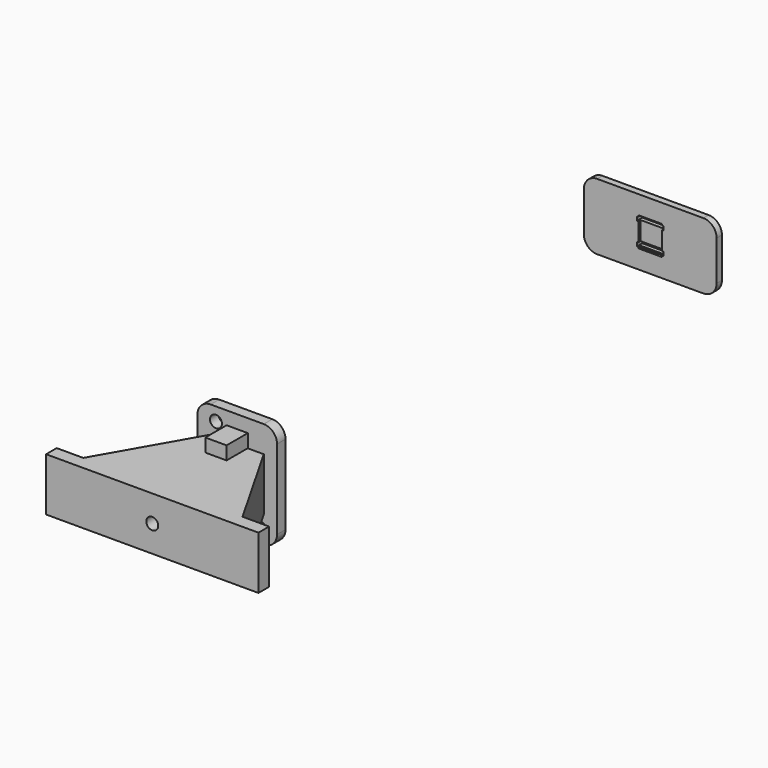
from build123d import *

# Parameters (mm, degrees)
PAD_DEPTH               = 10
SKETCH001_R             = 2.25
POCKET_DEPTH            = 40.001
SKETCH005_W             = 30
SKETCH005_H             = 40
SKETCH005_R             = 2.25
PAD004_DEPTH            = 4
SKETCH007_W             = 8
SKETCH007_H             = 5
PAD003_DEPTH            = 10
SKETCH006_R             = 2.25
POCKET002_DEPTH         = 14.001
FILLET001_R             = 5
SKETCH008_W             = 25
SKETCH008_H             = 50
SKETCH008_W_2           = 1.5
SKETCH008_H_2           = 10
PAD005_DEPTH            = 2.5
SKETCH009_W             = 11
SKETCH009_H             = 9
POCKET003_DEPTH         = 1
FILLET_R                = 5
BODY003_PITCH_ANGLE     = 90
BODY003_PLACEMENT_ANGLE = -90


with BuildPart() as windowopener_brace:
    # Sketch → Pad (new body, symmetric)
    with BuildSketch(Plane.XY):
        Polygon((-40, 0), (40, 0), (40, 5), (30, 5), (10, 40), (-10, 40), (-30, 5), (-40, 5), align=None)
    extrude(amount=PAD_DEPTH, both=True)

    # Sketch001 (on Face5 of Pad) → Pocket (cut, through all)
    with BuildSketch(Plane(origin=(0, 40, 0), x_dir=(-1, 0, 0), z_dir=(0, 1, 0))):
        Circle(SKETCH001_R)
    extrude(amount=-POCKET_DEPTH, mode=Mode.SUBTRACT)


with BuildPart() as obj1:
    # Sketch005 → Pad004 (new body)
    with BuildSketch(Plane.XZ):
        Rectangle(SKETCH005_W, SKETCH005_H)
        Circle(SKETCH005_R, mode=Mode.SUBTRACT)
    extrude(amount=PAD004_DEPTH)

    # Sketch007 (on Face7 of Pad004) → Pad003 (join)
    with BuildSketch(Plane.XZ.offset(4)):
        with Locations((0, 12.55)):
            Rectangle(SKETCH007_W, SKETCH007_H)
    pad003 = extrude(amount=PAD003_DEPTH)

    # Mirrored001: Pad003 across XY
    add(pad003.mirror(Plane.XY))

    # Sketch006 (on Face4 of Mirrored001) → Pocket002 (cut, through all)
    with BuildSketch(Plane(origin=(0, 0, 0), x_dir=(1, 0, 0), z_dir=(0, 1, 0))):
        with Locations((-8, -15)):
            Circle(SKETCH006_R)
        with Locations((9, 15)):
            Circle(SKETCH006_R)
    extrude(amount=-POCKET002_DEPTH, mode=Mode.SUBTRACT)

    # Fillet001
    fillet001_edges = [obj1.edges().sort_by_distance(p)[0] for p in [
        (-15, -2, -20),
        (15, -2, -20),
        (-15, -2, 20),
        (15, -2, 20),
    ]]
    fillet(fillet001_edges, radius=FILLET001_R)


with BuildPart() as obj1_1:
    # Body002 placement: moved
    add(obj1.part.moved(Location((0, 44, 0))))


with BuildPart() as windowopener_windowattachment:
    # Sketch008 → Pad005 (new body)
    with BuildSketch(Plane.XY):
        Rectangle(SKETCH008_W, SKETCH008_H)
        with Locations((-4.25, 0)):
            Rectangle(SKETCH008_W_2, SKETCH008_H_2, mode=Mode.SUBTRACT)
        with Locations((4.25, 0)):
            Rectangle(SKETCH008_W_2, SKETCH008_H_2, mode=Mode.SUBTRACT)
    extrude(amount=PAD005_DEPTH)

    # Sketch009 (on Face14 of Pad005) → Pocket003 (cut)
    with BuildSketch(Plane.XY.offset(2.5)):
        Rectangle(SKETCH009_W, SKETCH009_H)
    extrude(amount=-POCKET003_DEPTH, mode=Mode.SUBTRACT)

    # Fillet
    fillet_edges = [windowopener_windowattachment.edges().sort_by_distance(p)[0] for p in [
        (-12.5, -25, 1.25),
        (12.5, -25, 1.25),
        (12.5, 25, 1.25),
        (-12.5, 25, 1.25),
    ]]
    fillet(fillet_edges, radius=FILLET_R)


with BuildPart() as windowopener_windowattachment_1:
    # Body003 pitch: moved
    add(windowopener_windowattachment.part.rotate(Axis((0, 0, 0), (0, 1, 0)), BODY003_PITCH_ANGLE))


with BuildPart() as windowopener_windowattachment_2:
    # Body003 placement: moved
    add(windowopener_windowattachment_1.part.moved(Location((0, 237, 0))).rotate(Axis((0, 237, 0), (0, 0, 1)), BODY003_PLACEMENT_ANGLE))


solid = Compound([windowopener_brace.part, obj1_1.part, windowopener_windowattachment_2.part])
